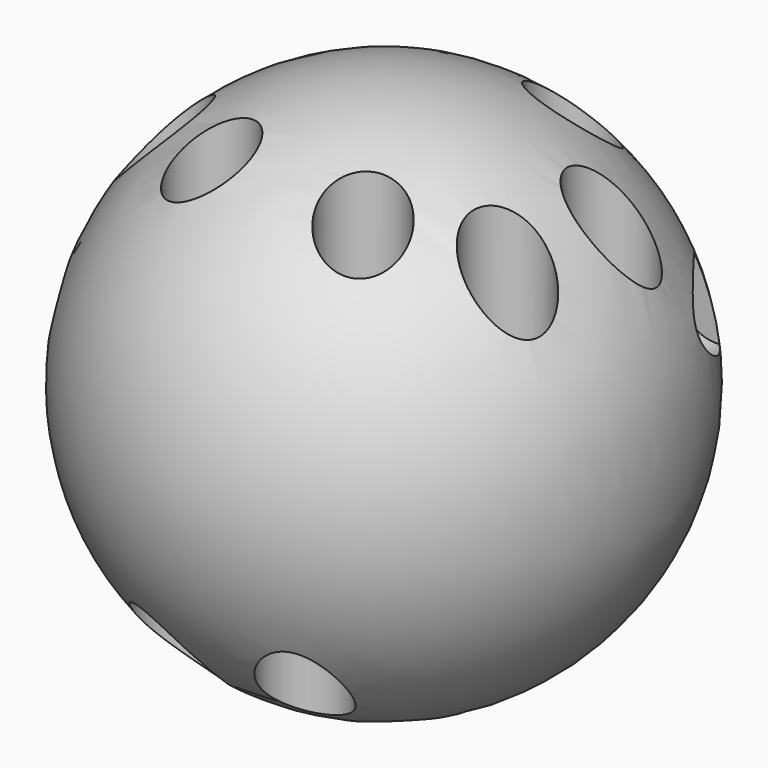
from build123d import *

# Parameters (mm, degrees)
F3_R      = 5.835028
F4_DEPTH  = 25.4
F5_R      = 5.715
F6_DEPTH  = 25.4
F7_R      = 5.715
F8_DEPTH  = 25.4
F9_R      = 5.715
F10_DEPTH = 25.4
F11_R     = 5.715
F12_DEPTH = 25.4
F13_R     = 5.715
F14_DEPTH = 25.4
F15_R     = 5.715
F16_DEPTH = 25.4
F17_R     = 5.715
F18_DEPTH = 25.4
F19_R     = 5.715
F20_DEPTH = 50.8
F21_R     = 5.715
F22_DEPTH = 38.1
F23_R     = 5.715
F24_DEPTH = 50.8
F25_R     = 5.715
F26_DEPTH = 50.8
F27_R     = 5.715
F28_DEPTH = 38.1
F29_R     = 5.715
F30_DEPTH = 50.8
F31_R     = 5.715
F32_DEPTH = 50.8
F33_R     = 5.715
F34_DEPTH = 50.8
F35_R     = 5.715
F36_DEPTH = 50.8
F37_R     = 5.715
F38_DEPTH = 25.4
F39_R     = 5.715
F40_DEPTH = 50.8
F41_R     = 5.715
F42_DEPTH = 50.8
F43_R     = 5.715
F44_DEPTH = 50.8
F45_R     = 5.715
F46_DEPTH = 50.8
F47_R     = 5.715
F48_DEPTH = 25.4
F49_R     = 5.715
F50_DEPTH = 50.8
F51_R     = 5.715
F52_DEPTH = 50.8
F53_R     = 5.715
F54_DEPTH = 50.8


with BuildPart() as f1:
    # F0 (on Top) → F1 (revolve)
    with BuildSketch(Plane.XY):
        with BuildLine():
            Line((0, 38.1), (0, -38.1))
            ThreePointArc((0, -38.1), (38.1, 0), (0, 38.1))
        make_face()
    revolve(axis=Axis((0, 0, 0), (0, -1, 0)))

    # F3 (on offset) → F4 (cut)
    with BuildSketch(Plane.XY.offset(35.56)):
        with Locations((-25.677627, 9.684784)):
            Circle(F3_R)
    extrude(amount=-F4_DEPTH, mode=Mode.SUBTRACT)

    # F5 (on offset) → F6 (cut)
    with BuildSketch(Plane.XY.offset(35.56)):
        with Locations((-25.58825, -7.631418)):
            Circle(F5_R)
    extrude(amount=-F6_DEPTH, mode=Mode.SUBTRACT)

    # F7 (on offset) → F8 (cut)
    with BuildSketch(Plane.XY.offset(35.56)):
        with Locations((-11.671734, 19.363148)):
            Circle(F7_R)
    extrude(amount=-F8_DEPTH, mode=Mode.SUBTRACT)

    # F9 (on offset) → F10 (cut)
    with BuildSketch(Plane.XY.offset(35.56)):
        with Locations((-11.43, -16.77629)):
            Circle(F9_R)
    extrude(amount=-F10_DEPTH, mode=Mode.SUBTRACT)

    # F11 (on offset) → F12 (cut)
    with BuildSketch(Plane.XY.offset(35.56)):
        with Locations((10.876937, 20.463388)):
            Circle(F11_R)
    extrude(amount=-F12_DEPTH, mode=Mode.SUBTRACT)

    # F13 (on offset) → F14 (cut)
    with BuildSketch(Plane.XY.offset(35.56)):
        with Locations((26.178388, 8.295968)):
            Circle(F13_R)
    extrude(amount=-F14_DEPTH, mode=Mode.SUBTRACT)

    # F15 (on offset) → F16 (cut)
    with BuildSketch(Plane.XY.offset(35.56)):
        with Locations((11.168594, -17.721573)):
            Circle(F15_R)
    extrude(amount=-F16_DEPTH, mode=Mode.SUBTRACT)

    # F17 (on offset) → F18 (cut)
    with BuildSketch(Plane.XY.offset(35.56)):
        with Locations((25.065295, -9.034733)):
            Circle(F17_R)
    extrude(amount=-F18_DEPTH, mode=Mode.SUBTRACT)

    # F19 (on Top) → F20 (cut)
    with BuildSketch(Plane.XY):
        with Locations((-11.020369, -10.698476)):
            Circle(F19_R)
    extrude(amount=-F20_DEPTH, mode=Mode.SUBTRACT)

    # F21 (on Top) → F22 (cut)
    with BuildSketch(Plane.XY):
        with Locations((-8.410416, -26.265264)):
            Circle(F21_R)
    extrude(amount=-F22_DEPTH, mode=Mode.SUBTRACT)

    # F23 (on Top) → F24 (cut)
    with BuildSketch(Plane.XY):
        with Locations((-26.861755, -9.874379)):
            Circle(F23_R)
    extrude(amount=-F24_DEPTH, mode=Mode.SUBTRACT)

    # F25 (on Top) → F26 (cut)
    with BuildSketch(Plane.XY):
        with Locations((10.360184, -10.322583)):
            Circle(F25_R)
    extrude(amount=-F26_DEPTH, mode=Mode.SUBTRACT)

    # F27 (on Top) → F28 (cut)
    with BuildSketch(Plane.XY):
        with Locations((9.813534, -26.503637)):
            Circle(F27_R)
    extrude(amount=-F28_DEPTH, mode=Mode.SUBTRACT)

    # F29 (on Front) → F30 (cut)
    with BuildSketch(Plane.XZ):
        with Locations((9.585861, 9.572983)):
            Circle(F29_R)
    extrude(amount=-F30_DEPTH, mode=Mode.SUBTRACT)

    # F31 (on Front) → F32 (cut)
    with BuildSketch(Plane.XZ):
        with Locations((-21.753872, -11.153468)):
            Circle(F31_R)
    extrude(amount=-F32_DEPTH, mode=Mode.SUBTRACT)

    # F33 (on Top) → F34 (cut)
    with BuildSketch(Plane.XY):
        with Locations((10.32387, 8.664678)):
            Circle(F33_R)
    extrude(amount=-F34_DEPTH, mode=Mode.SUBTRACT)

    # F35 (on Top) → F36 (cut)
    with BuildSketch(Plane.XY):
        with Locations((-10.876936, 9.770807)):
            Circle(F35_R)
    extrude(amount=-F36_DEPTH, mode=Mode.SUBTRACT)

    # F37 (on Front) → F38 (cut)
    with BuildSketch(Plane.XZ):
        with Locations((27.639836, 9.603769)):
            Circle(F37_R)
    extrude(amount=-F38_DEPTH, mode=Mode.SUBTRACT)

    # F39 (on Right) → F40 (cut)
    with BuildSketch(Plane.YZ):
        with Locations((7.210147, -6.774316)):
            Circle(F39_R)
    extrude(amount=-F40_DEPTH, mode=Mode.SUBTRACT)

    # F41 (on Right) → F42 (cut)
    with BuildSketch(Plane.YZ):
        with Locations((-12.618481, -9.541797)):
            Circle(F41_R)
    extrude(amount=-F42_DEPTH, mode=Mode.SUBTRACT)

    # F43 (on Front) → F44 (cut)
    with BuildSketch(Plane.XZ):
        with Locations((-15.670162, 18.251128)):
            Circle(F43_R)
    extrude(amount=-F44_DEPTH, mode=Mode.SUBTRACT)

    # F45 (on Right) → F46 (cut)
    with BuildSketch(Plane.YZ):
        with Locations((-16.960645, 7.189839)):
            Circle(F45_R)
    extrude(amount=-F46_DEPTH, mode=Mode.SUBTRACT)

    # F47 (on Right) → F48 (cut)
    with BuildSketch(Plane.YZ):
        with Locations((12.351775, -22.306936)):
            Circle(F47_R)
    extrude(amount=-F48_DEPTH, mode=Mode.SUBTRACT)

    # F49 (on Front) → F50 (cut)
    with BuildSketch(Plane.XZ):
        with Locations((10.800107, -7.05553)):
            Circle(F49_R)
    extrude(amount=-F50_DEPTH, mode=Mode.SUBTRACT)

    # F51 (on Right) → F52 (cut)
    with BuildSketch(Plane.YZ):
        with Locations((16.131049, 7.650726)):
            Circle(F51_R)
    extrude(amount=-F52_DEPTH, mode=Mode.SUBTRACT)

    # F53 (on Right) → F54 (cut)
    with BuildSketch(Plane.YZ):
        with Locations((-2.102561, 7.485651)):
            Circle(F53_R)
    extrude(amount=-F54_DEPTH, mode=Mode.SUBTRACT)


solid = f1.part
